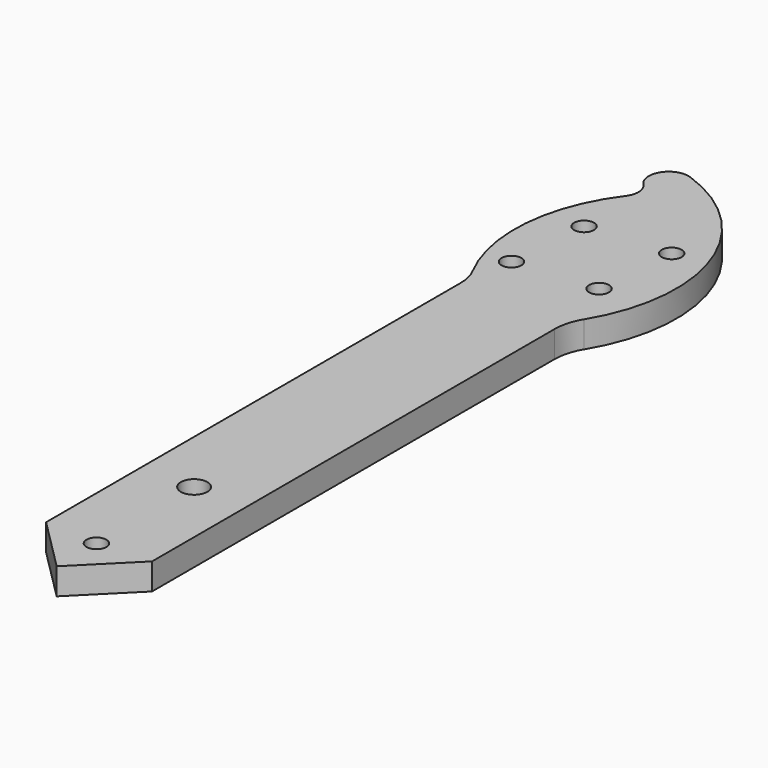
from build123d import *

# Parameters (mm, degrees)
SKETCH002_R                = 2
SKETCH002_R_2              = 1.5
EXTRUDE001_DEPTH           = 4
EXTRUDE001_PLACEMENT_ANGLE = 180


with BuildPart() as part:
    # Sketch002 → Extrude001 (new body)
    with BuildSketch(Plane.XY):
        with BuildLine():
            Line((-8, -92.933243), (-8, -17.000938))
            ThreePointArc((-8, -17.000938), (-8.297069, -14.84111), (-9.166214, -12.841687))
            ThreePointArc((3.732527, 23.29894), (-11.329683, 8.302585), (-9.166214, -12.841687))
            ThreePointArc((6.882805, 18.381245), (7.254673, 22.087346), (3.732527, 23.29894))
            ThreePointArc((6.882805, 18.381245), (6.118525, 16.652055), (6.660919, 14.84097))
            ThreePointArc((8.798632, -11.457288), (11.535462, 2.001195), (6.660919, 14.84097))
            ThreePointArc((8.798632, -11.457288), (8.20259, -13.032404), (8, -14.704293))
            Line((8, -14.704293), (8, -42.316849))
            Line((8, -42.316849), (8, -92.933243))
            Line((0, -100.933243), (8, -92.933243))
            Line((-8, -92.933243), (0, -100.933243))
        make_face()
        with Locations((0, -75)):
            Circle(SKETCH002_R, mode=Mode.SUBTRACT)
        with Locations((0, -93.433243)):
            Circle(SKETCH002_R_2, mode=Mode.SUBTRACT)
        with Locations((6.717514, -6.717514)):
            Circle(SKETCH002_R_2, mode=Mode.SUBTRACT)
        with Locations((-5.656854, -5.656854)):
            Circle(SKETCH002_R_2, mode=Mode.SUBTRACT)
        with Locations((-6.717514, 6.717514)):
            Circle(SKETCH002_R_2, mode=Mode.SUBTRACT)
        with Locations((5.656854, 5.656854)):
            Circle(SKETCH002_R_2, mode=Mode.SUBTRACT)
    extrude(amount=-EXTRUDE001_DEPTH)


with BuildPart() as part_1:
    # Extrude001 placement: moved
    add(part.part.rotate(Axis((0, 0, 0), (0, 1, 0)), EXTRUDE001_PLACEMENT_ANGLE))


solid = part_1.part
